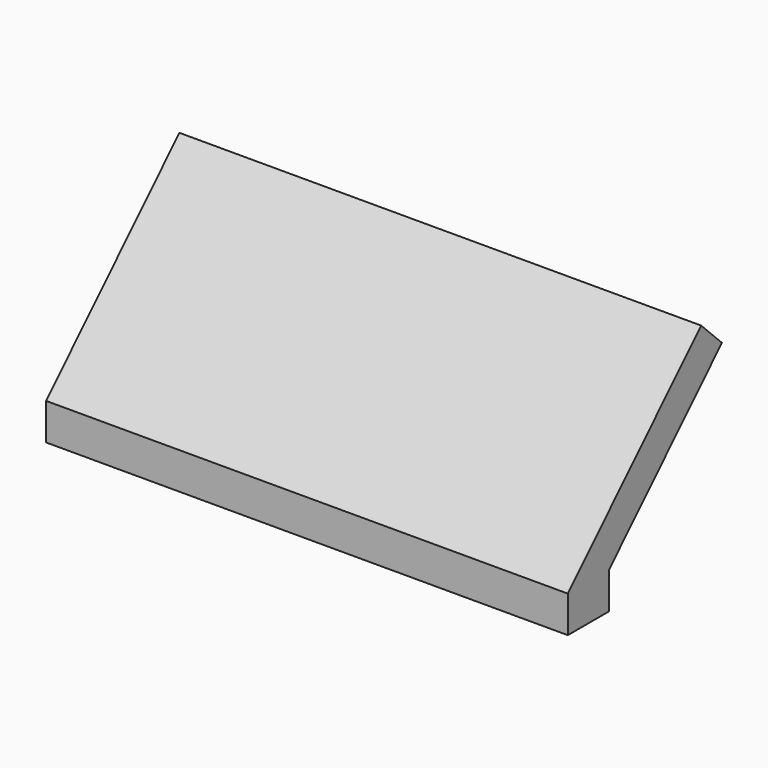
from build123d import *

# Parameters (mm, degrees)
F0_W     = 10
F0_H     = 10
F1_DEPTH = 2
F3_DEPTH = 14.25


with BuildPart() as f1:
    # F0 (on Top) → F1 (new body)
    with BuildSketch(Plane.XY):
        Rectangle(F0_W, F0_H)
    extrude(amount=F1_DEPTH)

    # F2 (on Right) → F3 (join, symmetric)
    with BuildSketch(Plane.YZ):
        Polygon((-5, 0), (-5, 2), (2.7082569398, 9.7836712944), (1.2871758557, 11.1909838227), (-7.8147584572, 2), (-7.8147584572, 0), align=None)
    extrude(amount=F3_DEPTH, both=True)


solid = f1.part
